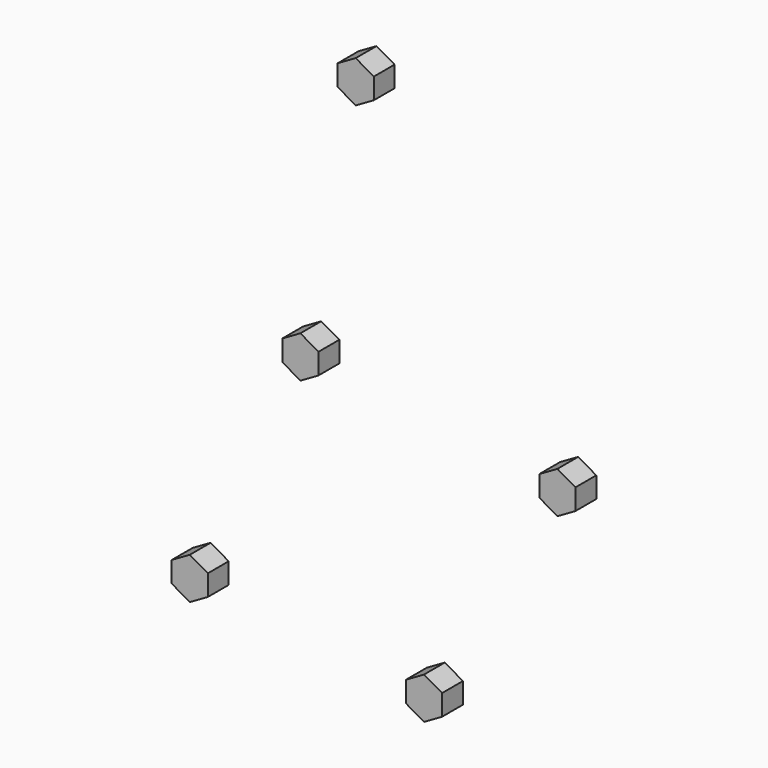
from build123d import *

# Parameters (mm, degrees)
PAD060_DEPTH = 4
PAD059_DEPTH = 4
PAD061_DEPTH = 4
PAD062_DEPTH = 4
PAD058_DEPTH = 4


with BuildPart() as pad060:
    # Sketch064 → Pad060 (new body)
    with BuildSketch(Plane(origin=(-19, -31, -40), x_dir=(1, 0, 0), z_dir=(0, -1, 0))):
        Polygon((-0.014307, -3.247808), (2.761205, -1.645366), (2.761205, 1.559519), (-0.014307, 3.161962), (-2.789819, 1.559519), (-2.789819, -1.645366), align=None)
    extrude(amount=PAD060_DEPTH)


with BuildPart() as pad059:
    # Sketch063 → Pad059 (new body)
    with BuildSketch(Plane(origin=(-39.5, -31, -5.5), x_dir=(1, 0, 0), z_dir=(0, -1, 0))):
        Polygon((-0.014307, -3.247808), (2.761205, -1.645366), (2.761205, 1.559519), (-0.014307, 3.161962), (-2.789819, 1.559519), (-2.789819, -1.645366), align=None)
    extrude(amount=PAD059_DEPTH)


with BuildPart() as pad061:
    # Sketch065 → Pad061 (new body)
    with BuildSketch(Plane(origin=(17, -31, -35.5), x_dir=(1, 0, 0), z_dir=(0, -1, 0))):
        Polygon((-0.014307, -3.247808), (2.761205, -1.645366), (2.761205, 1.559519), (-0.014307, 3.161962), (-2.789819, 1.559519), (-2.789819, -1.645366), align=None)
    extrude(amount=PAD061_DEPTH)


with BuildPart() as pad062:
    # Sketch066 → Pad062 (new body)
    with BuildSketch(Plane(origin=(-8.5, -31, 40), x_dir=(1, 0, 0), z_dir=(0, -1, 0))):
        Polygon((-0.014307, -3.247808), (2.761205, -1.645366), (2.761205, 1.559519), (-0.014307, 3.161962), (-2.789819, 1.559519), (-2.789819, -1.645366), align=None)
    extrude(amount=PAD062_DEPTH)


with BuildPart() as fusion014:
    # Sketch062 → Pad058 (new body)
    with BuildSketch(Plane.XZ.offset(31)):
        Polygon((-0.014307, -3.247808), (2.761205, -1.645366), (2.761205, 1.559519), (-0.014307, 3.161962), (-2.789819, 1.559519), (-2.789819, -1.645366), align=None)
    extrude(amount=PAD058_DEPTH)

    # Fusion014: union Pad060, Pad059, Pad061, Pad062
    add(pad060.part)
    add(pad059.part)
    add(pad061.part)
    add(pad062.part)


with BuildPart() as part_mirroring020:
    # Part__Mirroring020: instance of Fusion014
    add(fusion014.part.mirror(Plane(origin=(0, 0, 0), x_dir=(0, -1, 0), z_dir=(1, 0, 0))))


with BuildPart() as part_mirroring020_1:
    # Part__Mirroring020 placement: moved
    add(part_mirroring020.part.moved(Location((76, 0, 0))))


solid = part_mirroring020_1.part
